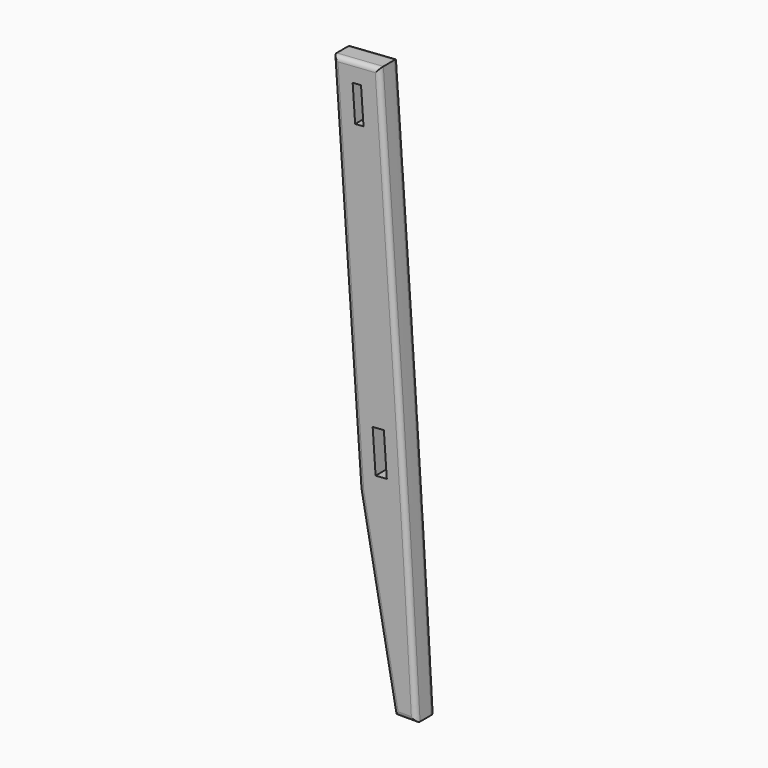
from build123d import *

# Parameters (mm, degrees)
F1_DEPTH  = 25
F2_R      = 5
F3_R      = 5
F4_W      = 10
F4_H      = 45
F5_DEPTH  = 20.5
F7_DEPTH  = 20.5
F9_DEPTH  = 25.5
F10_DEPTH = 25
F11_DEPTH = 25.5


with BuildPart() as f1:
    # F0 (on Front) → F1 (new body)
    with BuildSketch(Plane.XZ):
        with BuildLine():
            Line((49.878202513, 603.8294608564), (0, 600.3416371692))
            Line((0, 600.3416371692), (27.9286118029, 200.9438807629))
            Line((27.9286118029, 200.9438807629), (65.5547118832, 0))
            Line((65.5547118832, 0), (89.1294470023, 0))
            add(Edge.make_bspline(
                [(49.878202513, 603.8294608564), (63.8700964242, 403.1540429087), (77.9425227125, 200.9438807629), (89.1294470023, 0)],
                knots=[0, 0, 0, 0, 605.1038571949, 605.1038571949, 605.1038571949, 605.1038571949], degree=3))
        make_face()
    extrude(amount=F1_DEPTH)

    # F2
    f2_edges = [f1.edges().sort_by_distance(p)[0] for p in [
        (24.939101, -25, 602.085549),
        (13.964306, -25, 400.642759),
        (46.741662, -25, 100.47194),
        (77.342079, -25, 0),
        (70.557856, -25, 301.982638),
    ]]
    fillet(f2_edges, radius=F2_R)

    # F3
    f3_edges = [f1.edges().sort_by_distance(p)[0] for p in [
        (24.939101, 0, 602.085549),
        (13.964306, 0, 400.642759),
        (46.741662, 0, 100.47194),
        (77.342079, 0, 0),
        (70.557856, 0, 301.982638),
    ]]
    fillet(f3_edges, radius=F3_R)

    # F4 (on face) → F5 (cut)
    with BuildSketch(Plane(origin=(41.7757036401, 0, 2.9212417723), x_dir=(0, -1, 0), z_dir=(-0.9975640503, 0, -0.0697564737))):
        with Locations((12.5142587349, 292.2062065856)):
            Rectangle(F4_W, F4_H)
    extrude(amount=-F5_DEPTH, mode=Mode.SUBTRACT)

    # F6 (on face) → F7 (cut)
    with BuildSketch(Plane.XZ.offset(25)):
        Polygon((54.4157008116, 265.0651142862), (42.4449322085, 264.2280366013), (45.583973527, 219.3376543396), (57.5547421301, 220.1747320245), align=None)
    extrude(amount=-F7_DEPTH, mode=Mode.SUBTRACT)

    # F8 (on face) → F9 (cut)
    with BuildSketch(Plane.XZ.offset(25)):
        Polygon((21.0604546075, 581.1213909322), (23.7112006098, 543.2139570224), (32.6674069191, 543.8402359767), (30.0604546075, 581.1213909322), (30.0166609169, 581.7476698866), align=None)
    extrude(amount=-F9_DEPTH, mode=Mode.SUBTRACT)

    # F8 (on face) → F10 (cut)
    with BuildSketch(Plane.XZ.offset(25)):
        Polygon((21.0604546075, 581.1213909322), (23.7112006098, 543.2139570224), (32.6674069191, 543.8402359767), (30.0604546075, 581.1213909322), (30.0166609169, 581.7476698866), align=None)
    extrude(amount=-F10_DEPTH, mode=Mode.SUBTRACT)

    # F8 (on face) → F11 (cut)
    with BuildSketch(Plane.XZ.offset(25)):
        Polygon((21.0604546075, 581.1213909322), (23.7112006098, 543.2139570224), (32.6674069191, 543.8402359767), (30.0604546075, 581.1213909322), (30.0166609169, 581.7476698866), align=None)
    extrude(amount=-F11_DEPTH, mode=Mode.SUBTRACT)


solid = f1.part
